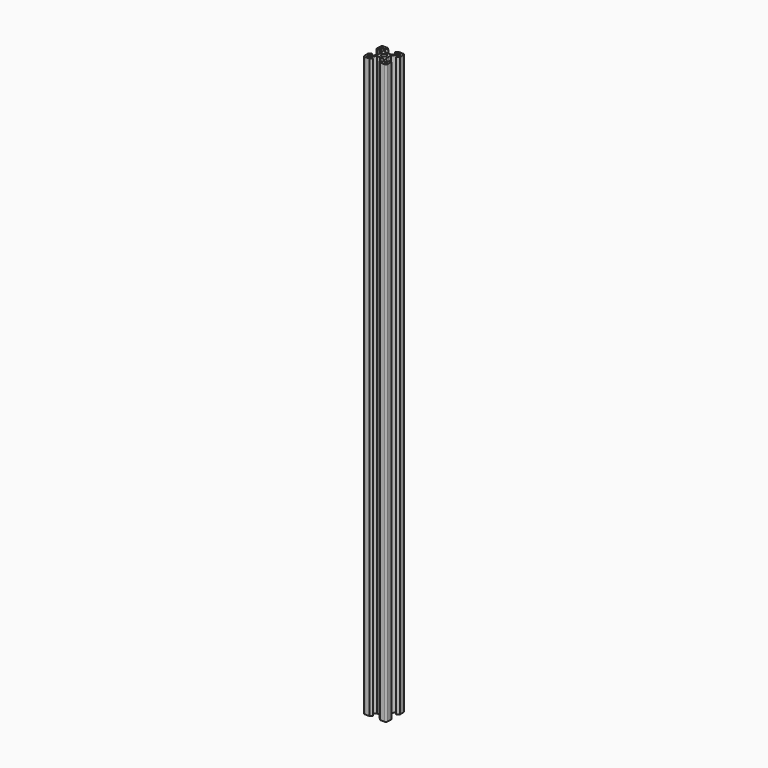
from build123d import *

# Parameters (mm, degrees)
F0_R     = 2.1
F1_DEPTH = 500


with BuildPart() as f1:
    # F0 (on Top) → F1 (new body)
    with BuildSketch(Plane.XY):
        with BuildLine():
            Line((10, 4.64), (10, 8.5))
            ThreePointArc((10, 8.5), (9.56066, 9.56066), (8.5, 10))
            Line((8.5, 10), (4.64, 10))
            Line((4.64, 10), (2.84, 8.2))
            Line((2.84, 8.2), (5.49934, 8.2))
            Line((5.49934, 8.2), (5.49934, 6.56))
            Line((5.49934, 6.56), (2.84, 3.90066))
            Line((2.84, 3.90066), (0.25, 3.90066))
            Line((0.25, 3.90066), (0, 3.65066))
            Line((0, 3.65066), (-0.25, 3.90066))
            Line((-0.25, 3.90066), (-2.84, 3.90066))
            Line((-2.84, 3.90066), (-5.49934, 6.56))
            Line((-5.49934, 6.56), (-5.49934, 8.2))
            Line((-5.49934, 8.2), (-2.84, 8.2))
            Line((-2.84, 8.2), (-4.64, 10))
            Line((-4.64, 10), (-8.5, 10))
            ThreePointArc((-8.5, 10), (-9.56066, 9.56066), (-10, 8.5))
            Line((-10, 8.5), (-10, 4.64))
            Line((-10, 4.64), (-8.2, 2.84))
            Line((-8.2, 2.84), (-8.2, 5.49934))
            Line((-8.2, 5.49934), (-6.56, 5.49934))
            Line((-6.56, 5.49934), (-3.90066, 2.84))
            Line((-3.90066, 2.84), (-3.90066, 0.25))
            Line((-3.90066, 0.25), (-3.65066, 0))
            Line((-3.65066, 0), (-3.90066, -0.25))
            Line((-3.90066, -0.25), (-3.90066, -2.84))
            Line((-3.90066, -2.84), (-6.56, -5.49934))
            Line((-6.56, -5.49934), (-8.2, -5.49934))
            Line((-8.2, -5.49934), (-8.2, -2.84))
            Line((-8.2, -2.84), (-10, -4.64))
            Line((-10, -4.64), (-10, -8.5))
            ThreePointArc((-10, -8.5), (-9.56066, -9.56066), (-8.5, -10))
            Line((-8.5, -10), (-4.64, -10))
            Line((-4.64, -10), (-2.84, -8.2))
            Line((-2.84, -8.2), (-5.49934, -8.2))
            Line((-5.49934, -8.2), (-5.49934, -6.56))
            Line((-5.49934, -6.56), (-2.84, -3.90066))
            Line((-2.84, -3.90066), (-0.25, -3.90066))
            Line((-0.25, -3.90066), (0, -3.65066))
            Line((0, -3.65066), (0.25, -3.90066))
            Line((0.25, -3.90066), (2.84, -3.90066))
            Line((2.84, -3.90066), (5.49934, -6.56))
            Line((5.49934, -6.56), (5.49934, -8.2))
            Line((5.49934, -8.2), (2.84, -8.2))
            Line((2.84, -8.2), (4.64, -10))
            Line((4.64, -10), (8.5, -10))
            ThreePointArc((8.5, -10), (9.56066, -9.56066), (10, -8.5))
            Line((10, -8.5), (10, -4.64))
            Line((10, -4.64), (8.2, -2.84))
            Line((8.2, -2.84), (8.2, -5.49934))
            Line((8.2, -5.49934), (6.56, -5.49934))
            Line((6.56, -5.49934), (3.90066, -2.84))
            Line((3.90066, -2.84), (3.90066, -0.25))
            Line((3.90066, -0.25), (3.65066, 0))
            Line((3.65066, 0), (3.90066, 0.25))
            Line((3.90066, 0.25), (3.90066, 2.84))
            Line((3.90066, 2.84), (6.56, 5.49934))
            Line((6.56, 5.49934), (8.2, 5.49934))
            Line((8.2, 5.49934), (8.2, 2.84))
            Line((8.2, 2.84), (10, 4.64))
        make_face()
        Polygon((-6.56934, -7.63), (-6.56934, -8.2), (-8.2, -8.2), (-8.2, -6.56934), (-7.63, -6.56934), align=None, mode=Mode.SUBTRACT)
        Polygon((8.2, -8.2), (6.56934, -8.2), (6.56934, -7.63), (7.63, -6.56934), (8.2, -6.56934), align=None, mode=Mode.SUBTRACT)
        Polygon((-7.63, 6.56934), (-8.2, 6.56934), (-8.2, 8.2), (-6.56934, 8.2), (-6.56934, 7.63), align=None, mode=Mode.SUBTRACT)
        Circle(F0_R, mode=Mode.SUBTRACT)
        Polygon((6.56934, 7.63), (6.56934, 8.2), (8.2, 8.2), (8.2, 6.56934), (7.63, 6.56934), align=None, mode=Mode.SUBTRACT)
    extrude(amount=F1_DEPTH)


solid = f1.part
